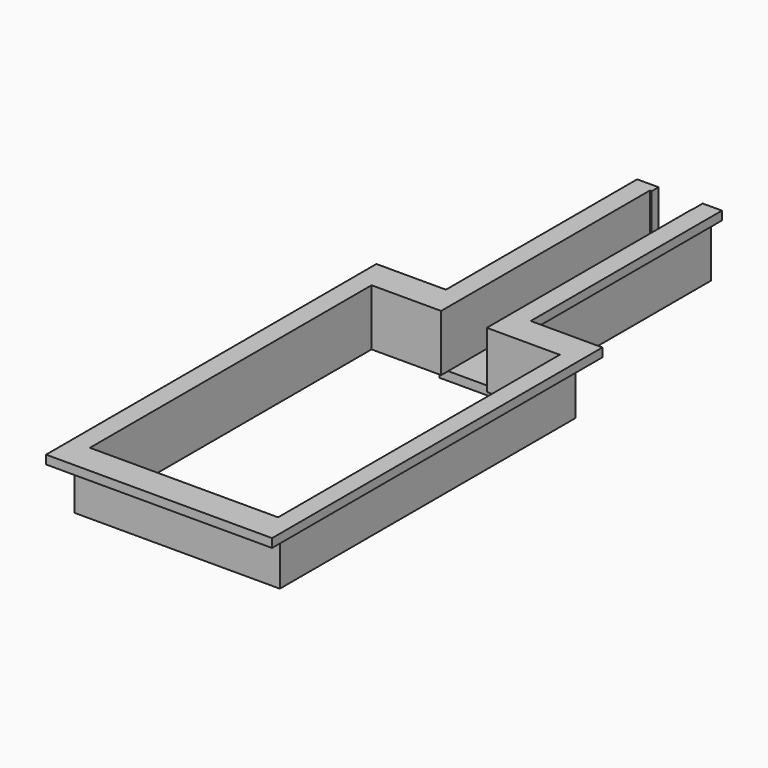
from build123d import *

# Parameters (mm, degrees)
F1_DEPTH = 15
F2_T     = -2
F3_DEPTH = 2
F5_DEPTH = 2
F6_W     = 10.1464129984
F6_H     = 12.3371165246
F7_DEPTH = 3


with BuildPart() as f1:
    # F0 (on Top) → F1 (new body)
    with BuildSketch(Plane.XY):
        Polygon((7.0000002384, 15), (7.0000002384, 75), (4.5000002384, 75), (-5, 75), (-7.5, 75), (-7.5, 15), (-23.5152803361, 15), (-23.5152803361, -70), (-21, -70), (21, -70), (23.7875375897, -70), (23.7875375897, 15), (21, 15), align=None)
    extrude(amount=-F1_DEPTH)

    # F2
    f2_openings = [f1.faces().sort_by_distance(p)[0] for p in [
        (0.067441, -14.603177, 0),
    ]]
    offset(amount=F2_T, openings=f2_openings, kind=Kind.INTERSECTION)

    # F0 (on Top) → F3 (join)
    with BuildSketch(Plane.XY):
        Polygon((-26, -75), (26, -75), (26, 20), (9.5000002384, 20), (9.5000002384, 75), (7.0000002384, 75), (7.0000002384, 15), (21, 15), (23.7875375897, 15), (23.7875375897, -70), (21, -70), (-21, -70), (-23.5152803361, -70), (-23.5152803361, 15), (-7.5, 15), (-7.5, 75), (-10, 75), (-10, 20), (-26, 20), align=None)
    extrude(amount=-F3_DEPTH)

    # F4 (on face) → F5 (cut)
    with BuildSketch(Plane(origin=(0, 0, -15), x_dir=(1, 0, 0), z_dir=(0, 0, -1))):
        Polygon((23.7875375897, 70), (-23.5152803361, 70), (-23.5152803361, -15), (-7.5, -15), (7.0000002384, -15), (23.7875375897, -15), align=None)
    extrude(amount=-F5_DEPTH, mode=Mode.SUBTRACT)

    # F6 (on face) → F7 (cut)
    with BuildSketch(Plane(origin=(0, 75, 0), x_dir=(-1, 0, 0), z_dir=(0, 1, 0))):
        with Locations((0, -6.1685582623)):
            Rectangle(F6_W, F6_H)
    extrude(amount=-F7_DEPTH, mode=Mode.SUBTRACT)


solid = f1.part
